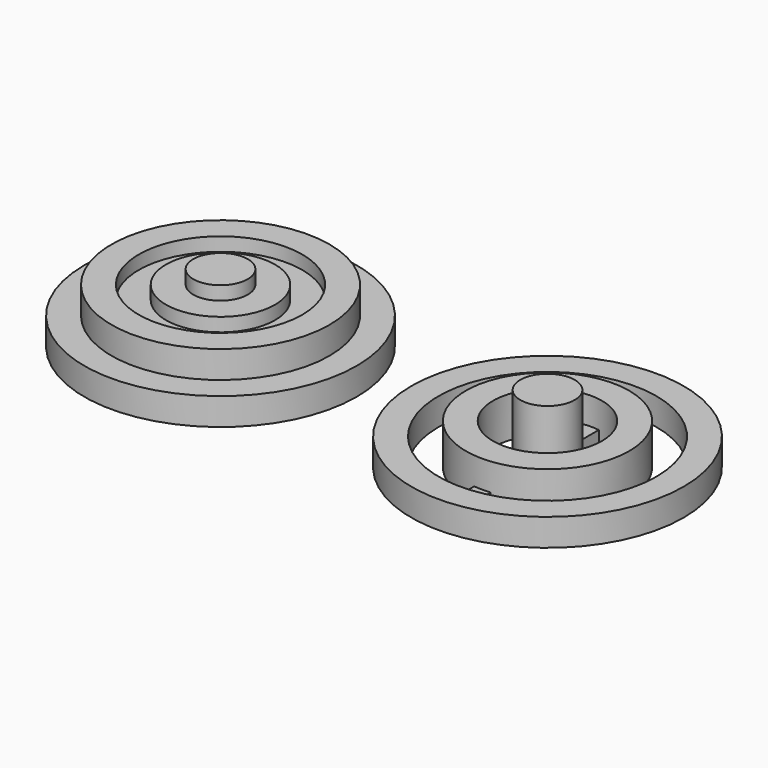
from build123d import *

# Parameters (mm, degrees)
F0_R      = 50
F0_R_2    = 40
F2_DEPTH  = 10
F0_R_3    = 30
F0_R_4    = 20
F3_DEPTH  = 15
F0_R_5    = 10
F4_DEPTH  = 25
F1_R      = 50
F1_R_2    = 40
F5_DEPTH  = 10
F1_R_3    = 30
F1_R_4    = 20
F6_DEPTH  = 15
F1_R_5    = 10
F7_DEPTH  = 25
F8_W      = 6
F8_H      = 49.909919
F9_DEPTH  = 5
F10_DEPTH = 20


with BuildPart() as f2:
    # F0 (on Top) → F2 (new body)
    with BuildSketch(Plane.XY):
        Circle(F0_R)
        Circle(F0_R_2, mode=Mode.SUBTRACT)
    extrude(amount=F2_DEPTH)


with BuildPart() as f3:
    # F0 (on Top) → F3 (new body)
    with BuildSketch(Plane.XY):
        Circle(F0_R_3)
        Circle(F0_R_4, mode=Mode.SUBTRACT)
    extrude(amount=F3_DEPTH)


with BuildPart() as f4:
    # F0 (on Top) → F4 (new body)
    with BuildSketch(Plane.XY):
        Circle(F0_R_5)
    extrude(amount=F4_DEPTH)


with BuildPart() as f5:
    # F1 (on Top) → F5 (new body)
    with BuildSketch(Plane.XY):
        with Locations((120, 0)):
            Circle(F1_R)
        with Locations((120, 0)):
            Circle(F1_R_2, mode=Mode.SUBTRACT)
    extrude(amount=F5_DEPTH)



with BuildPart() as f6:
    # F1 (on Top) → F6 (new body)
    with BuildSketch(Plane.XY):
        with Locations((120, 0)):
            Circle(F1_R_3)
        with Locations((120, 0)):
            Circle(F1_R_4, mode=Mode.SUBTRACT)
    extrude(amount=F6_DEPTH)


with BuildPart() as f7:
    # F1 (on Top) → F7 (new body)
    with BuildSketch(Plane.XY):
        with Locations((120, 0)):
            Circle(F1_R_5)
    extrude(amount=F7_DEPTH)


with BuildPart() as f5_1:
    add(f5.part)

    add(f6.part)  # F9 merges F6

    add(f7.part)  # F9 merges F7
    # F8 (on Top) → F9 (join)
    with BuildSketch(Plane.XY):
        with Locations((120, 24.954959)):
            Rectangle(F8_W, F8_H)
        with Locations((120, -24.954959)):
            Rectangle(F8_W, F8_H)
    extrude(amount=F9_DEPTH)


with BuildPart() as f10:
    # F0 (on Top) → F10 (new body)
    with BuildSketch(Plane.XY):
        Circle(F0_R_2)
        Circle(F0_R_3, mode=Mode.SUBTRACT)
        Circle(F0_R_4)
        Circle(F0_R_5, mode=Mode.SUBTRACT)
    extrude(amount=F10_DEPTH)


solid = Compound([f2.part, f3.part, f4.part, f5_1.part, f10.part])
